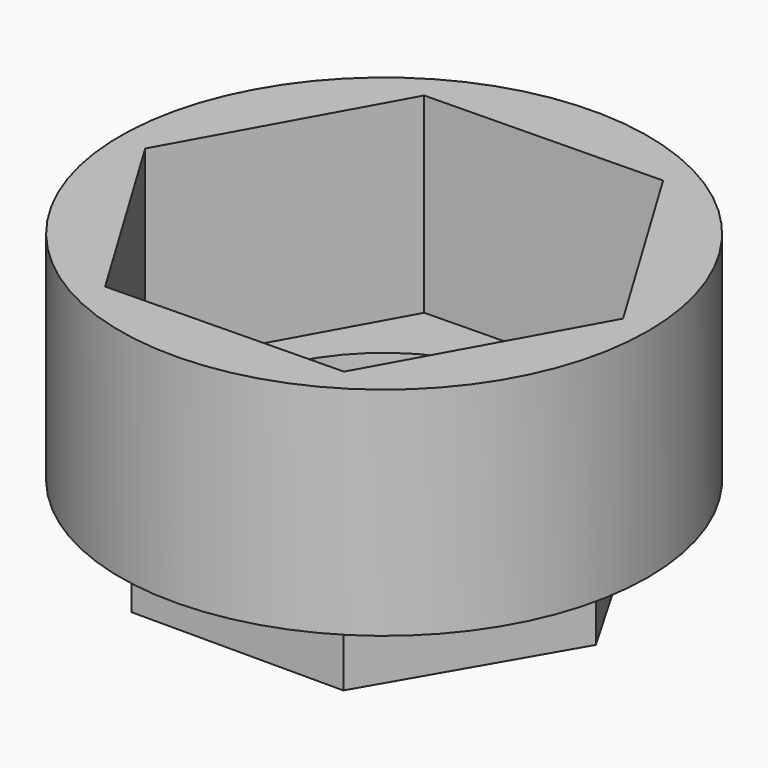
from build123d import *

# Parameters (mm, degrees)
F1_DEPTH = 6
F2_R     = 20.7
F3_DEPTH = 2
F4_R     = 20.7
F5_DEPTH = 15
F6_R     = 13
F7_DEPTH = 25


with BuildPart() as f1:
    # F0 (on Top) → F1 (new body)
    with BuildSketch(Plane.XY):
        Polygon((8.29941, 14.375), (-8.29941, 14.375), (-16.59882, 0), (-8.29941, -14.375), (8.29941, -14.375), (16.59882, 0), align=None)
    extrude(amount=F1_DEPTH)

    # F2 (on face) → F3 (join)
    with BuildSketch(Plane.XY.offset(6)):
        Circle(F2_R)
    extrude(amount=F3_DEPTH)

    # F4 (on face) → F5 (join)
    with BuildSketch(Plane.XY.offset(8)):
        Circle(F4_R)
        Polygon((-9.523293, 15.831621), (8.948939, 16.163224), (18.472232, 0.331603), (9.523293, -15.831621), (-8.948939, -16.163224), (-18.472232, -0.331603), align=None, mode=Mode.SUBTRACT)
    extrude(amount=F5_DEPTH)

    # F6 (on face) → F7 (cut)
    with BuildSketch(Plane(origin=(0, 0, 0), x_dir=(1, 0, 0), z_dir=(0, 0, -1))):
        Circle(F6_R)
    extrude(amount=-F7_DEPTH, mode=Mode.SUBTRACT)


solid = f1.part
